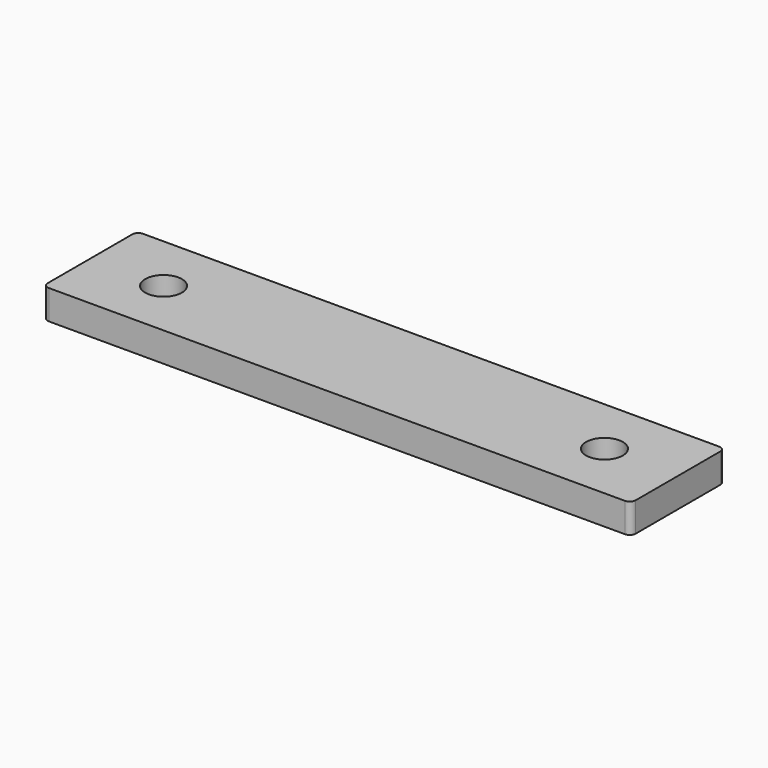
from build123d import *

# Parameters (mm, degrees)
F0_W     = 127
F0_H     = 25.4
F1_DEPTH = 6.35
F2_R     = 1.27
F4_D     = 7.9375


with BuildPart() as f1:
    # F0 (on Top) → F1 (new body)
    with BuildSketch(Plane.XY):
        Rectangle(F0_W, F0_H)
    extrude(amount=-F1_DEPTH)

    # F2
    f2_edges = [f1.edges().sort_by_distance(p)[0] for p in [
        (-63.5, -12.7, -3.175),
        (-63.5, 12.7, -3.175),
        (63.5, 12.7, -3.175),
        (63.5, -12.7, -3.175),
    ]]
    fillet(f2_edges, radius=F2_R)

    # F4 (through all)
    with Locations(Plane.XY):
        with Locations((-47.625, 0), (47.625, 0)):
            Hole(F4_D / 2)


solid = f1.part
